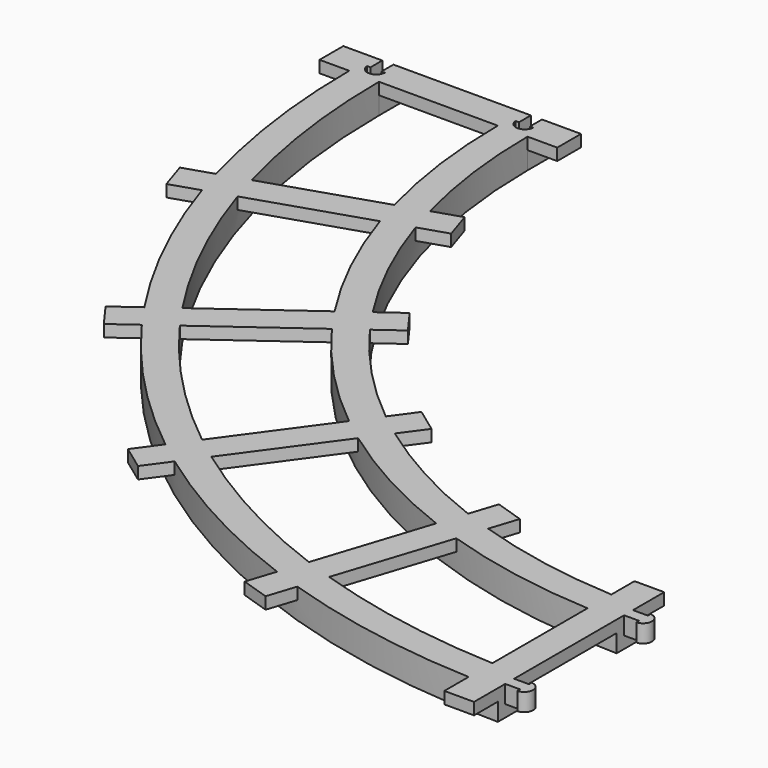
from build123d import *

# Parameters (mm, degrees)
F1_DEPTH = 6.35
F3_START = 3.81
F2_W     = 6.35
F2_H     = 50.8
F2_W_2   = 50.8
F2_H_2   = 6.35
F3_DEPTH = 2.54
F4_W     = 6.35
F4_H     = 6.35
F5_DEPTH = 3.81
F7_DEPTH = 3.81
F9_DEPTH = 3.81


with BuildPart() as f1:
    # F0 (on Top) → F1 (new body)
    with BuildSketch(Plane.XY):
        with BuildLine():
            Line((76.2, -82.55), (76.2, -76.2))
            ThreePointArc((76.2, -76.2), (-31.5630734528, -31.5630734528), (-76.2, 76.2))
            Line((-76.2, 76.2), (-82.55, 76.2))
            ThreePointArc((-82.55, 76.2), (-36.0532015134, -36.0532015134), (76.2, -82.55))
        make_face()
    extrude(amount=F1_DEPTH)



with BuildPart() as f1b:
    # F0 (on Top) → F1, piece 2 (new body)
    with BuildSketch(Plane.XY):
        with BuildLine():
            ThreePointArc((-50.8, 76.2), (-13.6025612107, -13.6025612107), (76.2, -50.8))
            Line((76.2, -50.8), (76.2, -44.45))
            ThreePointArc((76.2, -44.45), (-9.1124331502, -9.1124331502), (-44.45, 76.2))
            Line((-44.45, 76.2), (-50.8, 76.2))
        make_face()
    extrude(amount=F1_DEPTH)


with BuildPart() as f1_1:
    add(f1.part)

    add(f1b.part)  # F3 merges F1b
    # F2 (on Top) → F3 (join)
    with BuildSketch(Plane.XY.offset(F3_START)):
        with Locations((73.025, -63.5)):
            Rectangle(F2_W, F2_H)
        Polygon((25.1812942287, -80.8194308403), (40.8793575429, -32.5057598125), (34.8401486645, -30.5435018983), (19.1420853502, -78.857172926), align=None)
        Polygon((-20.8433451535, -57.3687057713), (9.016145663, -16.2706424571), (3.8788877487, -12.538206105), (-25.9806030678, -53.6362694192), align=None)
        Polygon((-57.3687057713, -20.8433451535), (-16.2706424571, 9.016145663), (-20.0030788091, 14.1534035773), (-61.1011421234, -15.7060872392), align=None)
        Polygon((-80.8194308403, 25.1812942287), (-32.5057598125, 40.8793575429), (-34.4680177268, 46.9185664214), (-82.7816887546, 31.2205031072), align=None)
        with Locations((-63.5, 79.375)):
            Rectangle(F2_W_2, F2_H_2)
    extrude(amount=F3_DEPTH)

    # F4 (on face) → F5 (join, through all)
    with BuildSketch(Plane(origin=(0, 0, 3.81), x_dir=(1, 0, 0), z_dir=(0, 0, -1))):
        with Locations((-79.375, -79.375)):
            Rectangle(F4_W, F4_H)
        with Locations((-47.625, -79.375)):
            Rectangle(F4_W, F4_H)
    extrude(amount=F5_DEPTH)

    # F6 (on face) → F7 (join)
    with BuildSketch(Plane.XY.offset(6.35)):
        with BuildLine():
            Line((76.2, -46.43374), (76.2, -47.62373))
            Line((76.2, -47.62373), (76.2, -48.81372))
            Line((76.2, -48.81372), (79.375, -48.81372))
            Line((79.375, -48.81372), (79.375, -49.52746))
            ThreePointArc((79.375, -49.52746), (81.2104508296, -47.62373), (79.375, -45.72))
            Line((79.375, -45.72), (79.375, -46.43374))
            Line((79.375, -46.43374), (76.2, -46.43374))
        make_face()
        with BuildLine():
            Line((76.2, -78.18628), (76.2, -79.37627))
            Line((76.2, -79.37627), (76.2, -80.56626))
            Line((76.2, -80.56626), (79.375, -80.56626))
            Line((79.375, -80.56626), (79.375, -81.28))
            ThreePointArc((79.375, -81.28), (81.2104508296, -79.37627), (79.375, -77.47254))
            Line((79.375, -77.47254), (79.375, -78.18628))
            Line((79.375, -78.18628), (76.2, -78.18628))
        make_face()
    extrude(amount=-F7_DEPTH)

    # F8 (on face) → F9 (cut)
    with BuildSketch(Plane.XY.offset(6.35)):
        with BuildLine():
            Line((-46.43374, 82.55), (-47.62373, 82.55))
            Line((-47.62373, 82.55), (-48.81372, 82.55))
            Line((-48.81372, 82.55), (-48.81372, 79.375))
            Line((-48.81372, 79.375), (-49.52746, 79.375))
            ThreePointArc((-49.52746, 79.375), (-47.62373, 77.5395491704), (-45.72, 79.375))
            Line((-45.72, 79.375), (-46.43374, 79.375))
            Line((-46.43374, 79.375), (-46.43374, 82.55))
        make_face()
        with BuildLine():
            Line((-78.18628, 82.55), (-79.37627, 82.55))
            Line((-79.37627, 82.55), (-80.56626, 82.55))
            Line((-80.56626, 82.55), (-80.56626, 79.375))
            Line((-80.56626, 79.375), (-81.28, 79.375))
            ThreePointArc((-81.28, 79.375), (-79.37627, 77.5395491704), (-77.47254, 79.375))
            Line((-77.47254, 79.375), (-78.18628, 79.375))
            Line((-78.18628, 79.375), (-78.18628, 82.55))
        make_face()
    extrude(amount=-F9_DEPTH, mode=Mode.SUBTRACT)


solid = f1_1.part
